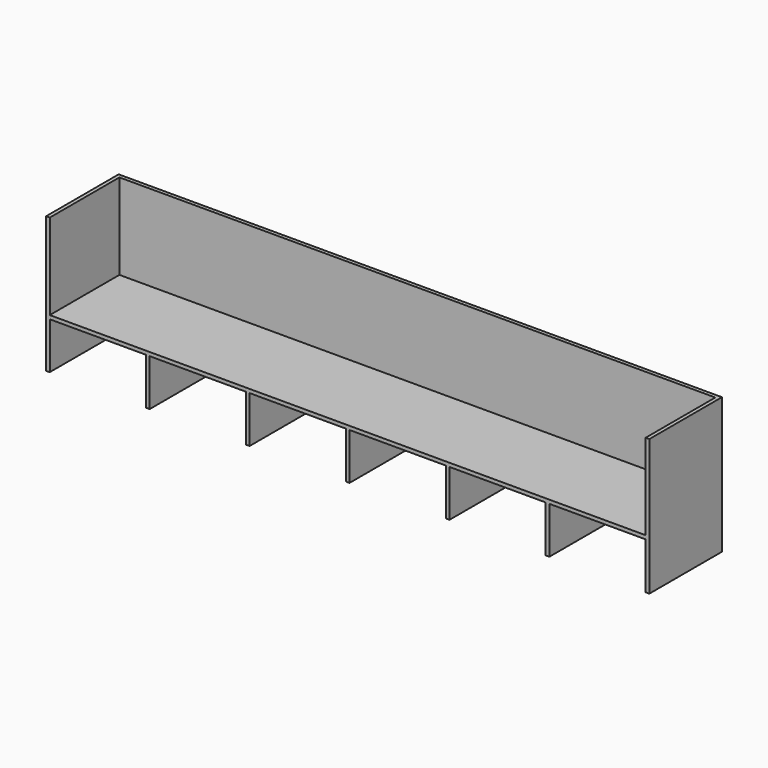
from build123d import *

# Parameters (mm, degrees)
F1_DEPTH = 740
F2_W     = 30
F2_H     = 30
F2_W_2   = 4860
F2_H_2   = 710
F3_DEPTH = 700
F4_W     = 1360.496822
F4_H     = 30
F4_W_2   = 3559.503178
F5_DEPTH = 380


with BuildPart() as f1:
    # F0 (on Front) → F1 (new body)
    with BuildSketch(Plane.XZ):
        Polygon((4414.443317, 240.934227), (-505.556683, 240.934227), (-505.556683, 210.934227), (-505.556683, -169.065773), (-475.556683, -169.065773), (-475.556683, 210.934227), (309.443317, 210.934227), (309.443317, -169.065773), (324.443317, -169.065773), (339.443317, -169.065773), (339.443317, 210.934227), (1124.443317, 210.934227), (1124.443317, -169.065773), (1154.443317, -169.065773), (1154.443317, 210.934227), (1939.443317, 210.934227), (1939.443317, -169.065773), (1954.443317, -169.065773), (1969.443317, -169.065773), (1969.443317, 210.934227), (2754.443317, 210.934227), (2754.443317, -169.065773), (2784.443317, -169.065773), (2784.443317, 210.934227), (3569.443317, 210.934227), (3569.443317, -169.065773), (3584.443317, -169.065773), (3599.443317, -169.065773), (3599.443317, 210.934227), (4384.443317, 210.934227), (4384.443317, -169.065773), (4414.443317, -169.065773), (4414.443317, 210.934227), align=None)
    extrude(amount=F1_DEPTH)

    # F2 (on face) → F3 (join)
    with BuildSketch(Plane.XY.offset(240.934227)):
        with Locations((-490.556683, -15)):
            Rectangle(F2_W, F2_H)
        with Locations((1954.443317, -15)):
            Rectangle(F2_W_2, F2_H)
        with Locations((-490.556683, -385)):
            Rectangle(F2_W, F2_H_2)
        with Locations((4399.443317, -15)):
            Rectangle(F2_W, F2_H)
        with Locations((4399.443317, -385)):
            Rectangle(F2_W, F2_H_2)
    extrude(amount=F3_DEPTH)

    # F4 (on face) → F5 (join, through all)
    with BuildSketch(Plane(origin=(0, 0, 210.934227), x_dir=(1, 0, 0), z_dir=(0, 0, -1))):
        with Locations((3734.194906, 15)):
            Rectangle(F4_W, F4_H)
        with Locations((1274.194906, 15)):
            Rectangle(F4_W_2, F4_H)
    extrude(amount=F5_DEPTH)


solid = f1.part
